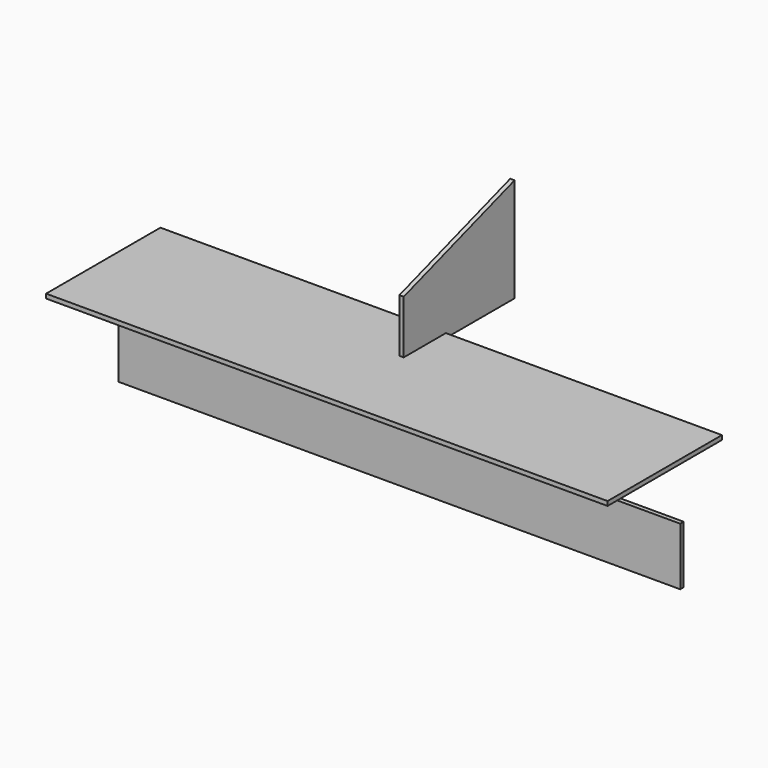
from build123d import *

# Parameters (mm, degrees)
F1_DEPTH = 9.525
F2_W     = 1235.075
F2_H     = 127
F3_DEPTH = 9.525
F4_W     = 309.5625
F4_H     = 314.325
F4_W_2   = 306.3875
F5_DEPTH = 9.525
F6_DEPTH = 9.525


with BuildPart() as f1:
    # F0 (on Right) → F1 (new body)
    with BuildSketch(Plane.YZ):
        Polygon((0, 127), (0, 0), (304.8, 0), (304.8, 228.6), align=None)
    extrude(amount=F1_DEPTH)

    # F4 (on Top) → F5 (join)
    with BuildSketch(Plane.XY):
        with Locations((-463.539516, -41.276115)):
            Rectangle(F4_W, F4_H)
        with Locations((-153.977016, -41.276115)):
            Rectangle(F4_W, F4_H)
        with Locations((155.585484, -41.276115)):
            Rectangle(F4_W, F4_H)
        with Locations((463.560484, -41.276115)):
            Rectangle(F4_W_2, F4_H)
    extrude(amount=F5_DEPTH)


with BuildPart() as f3:
    # F2 (on Front) → F3 (new body)
    with BuildSketch(Plane.XZ):
        with Locations((7.908151, -171.824664)):
            Rectangle(F2_W, F2_H)
    extrude(amount=F3_DEPTH)


with BuildPart() as f6:
    # F4 (on Top) → F6 (new body)
    with BuildSketch(Plane.XY):
        with Locations((-463.539516, -41.276115)):
            Rectangle(F4_W, F4_H)
        with Locations((-153.977016, -41.276115)):
            Rectangle(F4_W, F4_H)
        with Locations((155.585484, -41.276115)):
            Rectangle(F4_W, F4_H)
        with Locations((463.560484, -41.276115)):
            Rectangle(F4_W_2, F4_H)
    extrude(amount=F6_DEPTH)


solid = Compound([f1.part, f3.part, f6.part])
